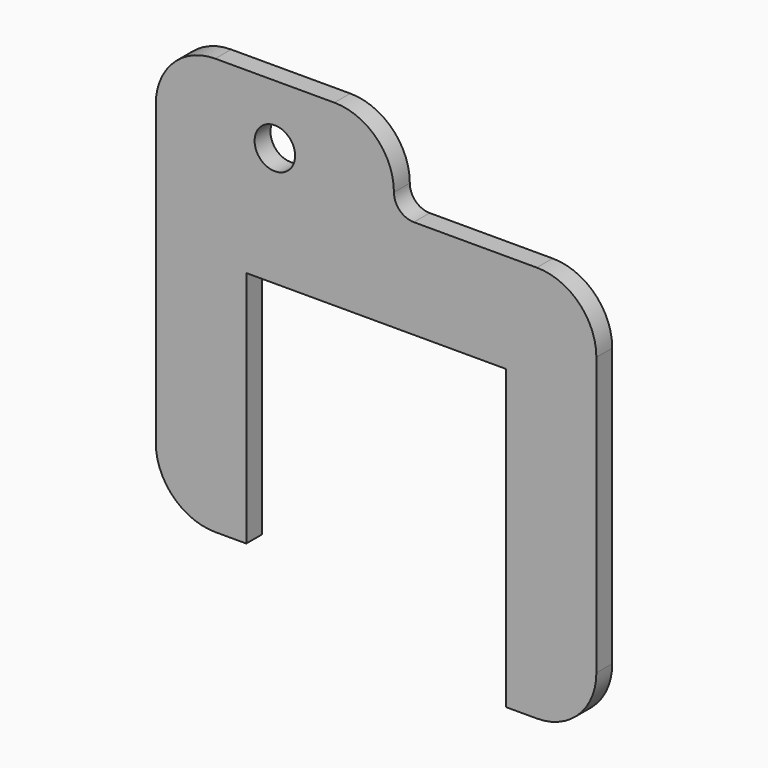
from build123d import *

# Parameters (mm, degrees)
F0_R     = 6.477
F1_DEPTH = 6.35


with BuildPart() as f1:
    # F0 (on Front) → F1 (new body)
    with BuildSketch(Plane.XZ):
        with BuildLine():
            Line((41.529, -76.2), (51.435, -76.2))
            ThreePointArc((51.435, -76.2), (64.905384, -70.620384), (70.485, -57.15))
            Line((70.485, -57.15), (70.485, 31.75))
            ThreePointArc((70.485, 31.75), (64.905384, 45.220384), (51.435, 50.8))
            Line((51.435, 50.8), (12.065, 50.8))
            ThreePointArc((12.065, 50.8), (7.574872, 52.659872), (5.715, 57.15))
            ThreePointArc((5.715, 57.15), (0.135384, 70.620384), (-13.335, 76.2))
            Line((-13.335, 76.2), (-51.435, 76.2))
            ThreePointArc((-51.435, 76.2), (-64.905384, 70.620384), (-70.485, 57.15))
            Line((-70.485, 57.15), (-70.485, -38.1))
            ThreePointArc((-70.485, -38.1), (-64.905384, -51.570384), (-51.435, -57.15))
            Line((-51.435, -57.15), (-41.529, -57.15))
            Line((-41.529, -57.15), (-41.529, 19.05))
            Line((-41.529, 19.05), (41.529, 19.05))
            Line((41.529, 19.05), (41.529, -76.2))
        make_face()
        with Locations((-32.385, 57.15)):
            Circle(F0_R, mode=Mode.SUBTRACT)
    extrude(amount=F1_DEPTH)


solid = f1.part
